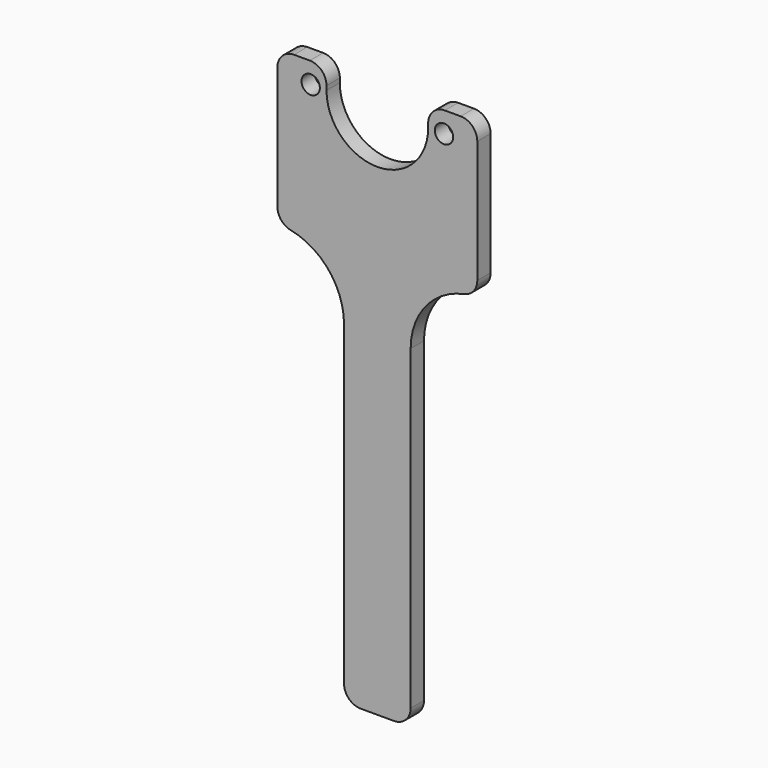
from build123d import *

# Parameters (mm, degrees)
F0_R     = 3.4925
F1_DEPTH = 6.35
F2_R     = 6.35


with BuildPart() as f1:
    # F0 (on Front) → F1 (new body)
    with BuildSketch(Plane.XZ):
        with BuildLine():
            ThreePointArc((19.3675, 0), (0, -19.3675), (-19.3675, 0))
            Line((-19.3675, 0), (-19.3675, 7.9375))
            Line((-19.3675, 7.9375), (-38.1, 7.9375))
            Line((-38.1, 7.9375), (-38.1, -50.8))
            ThreePointArc((-38.1, -50.8), (-20.139488, -58.239488), (-12.7, -76.2))
            Line((-12.7, -76.2), (-12.7, -203.2))
            Line((-12.7, -203.2), (12.7, -203.2))
            Line((12.7, -203.2), (12.7, -76.2))
            ThreePointArc((12.7, -76.2), (20.139488, -58.239488), (38.1, -50.8))
            Line((38.1, -50.8), (38.1, 7.9375))
            Line((38.1, 7.9375), (19.3675, 7.9375))
            Line((19.3675, 7.9375), (19.3675, 0))
        make_face()
        with Locations((-25.4, 0)):
            Circle(F0_R, mode=Mode.SUBTRACT)
        with Locations((25.4, 0)):
            Circle(F0_R, mode=Mode.SUBTRACT)
    extrude(amount=-F1_DEPTH)

    # F2
    f2_edges = [f1.edges().sort_by_distance(p)[0] for p in [
        (-38.1, 3.175, -50.8),
        (38.1, 3.175, -50.8),
        (38.1, 3.175, 7.9375),
        (-38.1, 3.175, 7.9375),
        (-19.3675, 3.175, 7.9375),
        (19.3675, 3.175, 7.9375),
        (12.7, 3.175, -203.2),
        (-12.7, 3.175, -203.2),
    ]]
    fillet(f2_edges, radius=F2_R)


solid = f1.part
